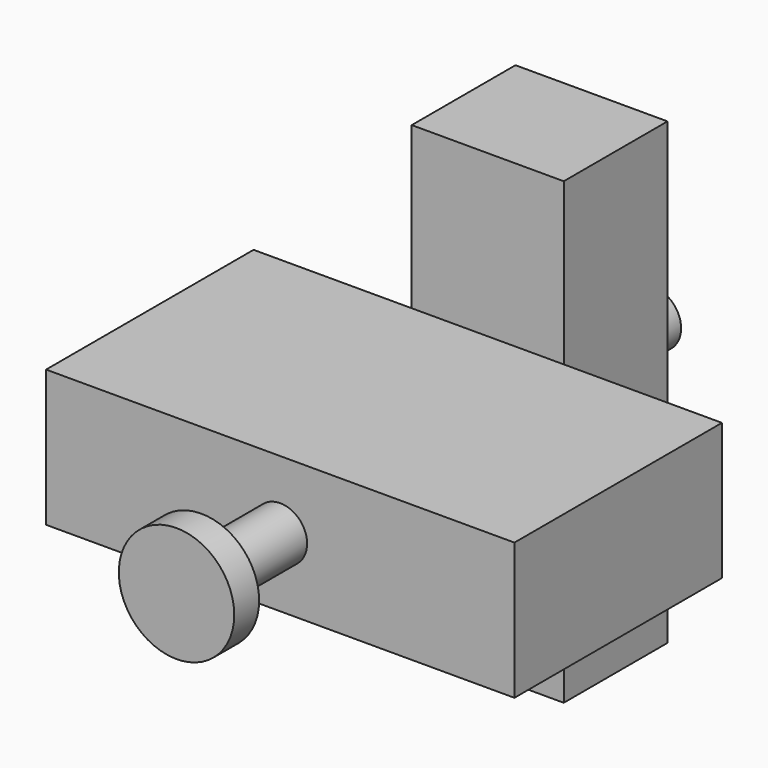
from build123d import *

# Parameters (mm, degrees)
F0_W      = 90.29606
F0_H      = 26.348686
F1_DEPTH  = 50
F2_W      = 29.309216
F2_H      = 88.519738
F3_DEPTH  = 25
F4_R      = 8.4699
F5_DEPTH  = 25
F6_R      = 5.178495
F7_DEPTH  = 70
F8_R      = 5.283524
F9_DEPTH  = 40
F12_R     = 11.126617
F13_DEPTH = 6


with BuildPart() as f1:
    # F0 (on Front) → F1 (new body)
    with BuildSketch(Plane.XZ):
        Rectangle(F0_W, F0_H)
    extrude(amount=F1_DEPTH)

    # F2 (on Front) → F3 (join)
    with BuildSketch(Plane.XZ):
        Rectangle(F2_W, F2_H)
    extrude(amount=-F3_DEPTH)



with BuildPart() as f5:
    # F4 (on Front) → F5 (new body)
    with BuildSketch(Plane.XZ):
        Circle(F4_R)
    extrude(amount=F5_DEPTH)


with BuildPart() as f1_1:
    add(f1.part)

    add(f5.part)  # F7 merges F5
    # F6 (on Front) → F7 (join)
    with BuildSketch(Plane.XZ):
        Circle(F6_R)
    extrude(amount=F7_DEPTH)

    # F8 (on Front) → F9 (join)
    with BuildSketch(Plane.XZ):
        Circle(F8_R)
    extrude(amount=-F9_DEPTH)

    # F12 (on offset) → F13 (join)
    with BuildSketch(Plane.XZ.offset(75)):
        Circle(F12_R)
    extrude(amount=-F13_DEPTH)


solid = f1_1.part
